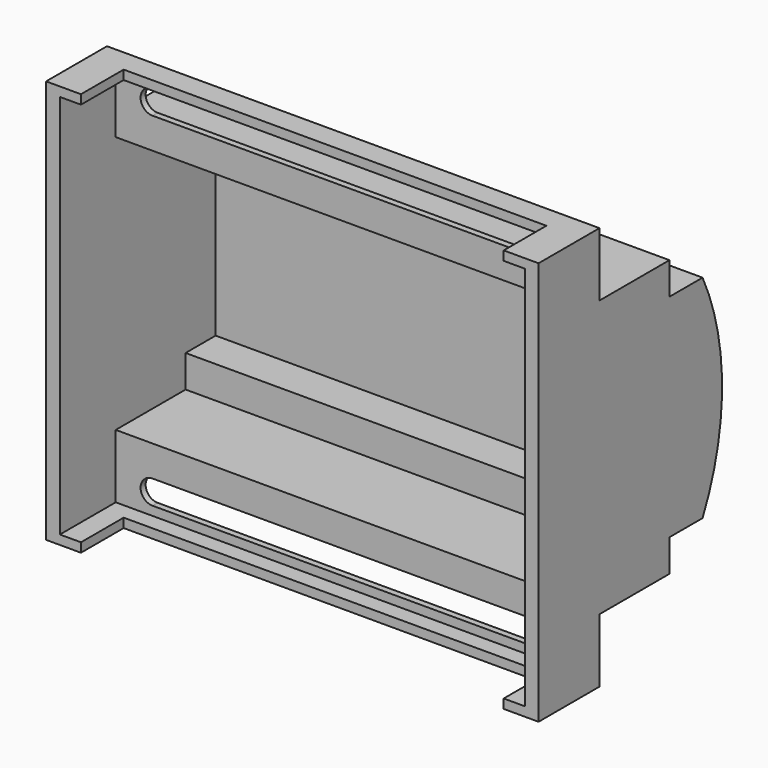
from build123d import *

# Parameters (mm, degrees)
PAD_DEPTH       = 107
SKETCH001_W     = 101
SKETCH001_H     = 42
POCKET_DEPTH    = 42.3
SKETCH002_W     = 101
SKETCH002_H     = 56
POCKET001_DEPTH = 34.14
SKETCH003_W     = 101
SKETCH003_H     = 83.7
POCKET002_DEPTH = 15.16
SKETCH004_W     = 11.6
SKETCH004_H     = 91.85
POCKET003_DEPTH = 87.701
POCKET004_DEPTH = 5


with BuildPart() as part:
    # Sketch → Pad (new body)
    with BuildSketch(Plane.YZ):
        with BuildLine():
            Line((0, 0), (0, -87.7))
            Line((0, -87.7), (16.54, -87.7))
            Line((16.54, -87.7), (16.54, -73.85))
            Line((16.54, -73.85), (35.54, -73.85))
            Line((35.54, -73.85), (35.54, -66.85))
            Line((35.54, -66.85), (44.54, -66.85))
            ThreePointArc((44.54, -66.85), (49.84, -43.85), (44.54, -20.85))
            Line((44.54, -20.85), (35.54, -20.85))
            Line((35.54, -20.85), (35.54, -13.85))
            Line((35.54, -13.85), (16.54, -13.85))
            Line((16.54, -13.85), (16.54, 0))
            Line((16.54, 0), (0, 0))
        make_face()
    extrude(amount=PAD_DEPTH)

    # Sketch001 → Pocket (cut)
    with BuildSketch(Plane.XZ):
        with Locations((53.5, -43.85)):
            Rectangle(SKETCH001_W, SKETCH001_H)
    extrude(amount=-POCKET_DEPTH, mode=Mode.SUBTRACT)

    # Sketch002 → Pocket001 (cut)
    with BuildSketch(Plane.XZ):
        with Locations((53.5, -43.85)):
            Rectangle(SKETCH002_W, SKETCH002_H)
    extrude(amount=-POCKET001_DEPTH, mode=Mode.SUBTRACT)

    # Sketch003 → Pocket002 (cut)
    with BuildSketch(Plane.XZ):
        with Locations((53.5, -43.85)):
            Rectangle(SKETCH003_W, SKETCH003_H)
    extrude(amount=-POCKET002_DEPTH, mode=Mode.SUBTRACT)

    # Sketch004 (on Face5 of Pocket002) → Pocket003 (cut, through all)
    with BuildSketch(Plane.YX.offset(87.7)):
        with Locations((5.8, 53.5)):
            Rectangle(SKETCH004_W, SKETCH004_H)
    extrude(amount=-POCKET003_DEPTH, mode=Mode.SUBTRACT)

    # Sketch005 (on Face10 of Pocket003) → Pocket004 (cut)
    with BuildSketch(Plane.ZX.offset(16.54)):
        with BuildLine():
            ThreePointArc((-78.55, 96), (-81.15, 98.6), (-83.75, 96))
            Line((-83.75, 96), (-83.75, 11))
            ThreePointArc((-83.75, 11), (-81.15, 8.4), (-78.55, 11))
            Line((-78.55, 96), (-78.55, 11))
        make_face()
        with BuildLine():
            ThreePointArc((-3.95, 96), (-6.55, 98.6), (-9.15, 96))
            Line((-9.15, 96), (-9.15, 11))
            ThreePointArc((-9.15, 11), (-6.55, 8.4), (-3.95, 11))
            Line((-3.95, 96), (-3.95, 11))
        make_face()
    extrude(amount=-POCKET004_DEPTH, mode=Mode.SUBTRACT)


solid = part.part
